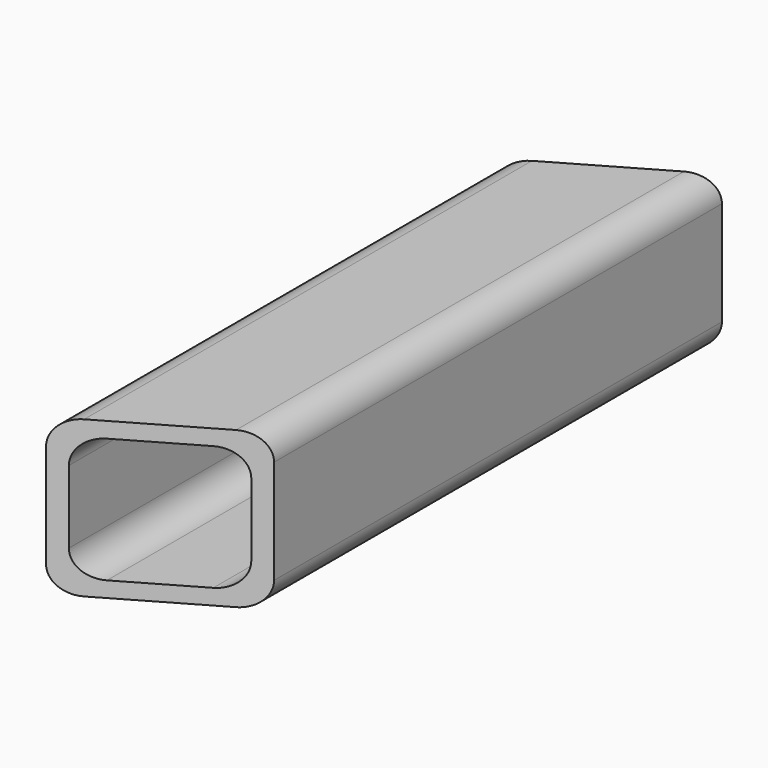
from build123d import *

# Parameters (mm, degrees)
F0_W     = 60
F0_H     = 60
F1_DEPTH = 250
F2_T     = -6
F3_R     = 10
F5_DEPTH = 60.001
F7_DEPTH = 60.001


with BuildPart() as f1:
    # F0 (on Front) → F1 (new body)
    with BuildSketch(Plane.XZ):
        Rectangle(F0_W, F0_H)
    extrude(amount=F1_DEPTH)

    # F2
    f2_openings = [f1.faces().sort_by_distance(p)[0] for p in [
        (0, -250, 0),
        (0, 0, 0),
    ]]
    offset(amount=F2_T, openings=f2_openings)

    # F3
    f3_edges = [f1.edges().sort_by_distance(p)[0] for p in [
        (-30, -125, 30),
        (-24, -125, -24),
        (30, -125, 30),
        (30, -125, -30),
        (-24, -125, 24),
        (-30, -125, -30),
        (24, -125, 24),
        (24, -125, -24),
    ]]
    fillet(f3_edges, radius=F3_R)

    # F4 (on face) → F5 (cut, through all)
    with BuildSketch(Plane.XY.offset(30)):
        Polygon((40, -255.7735026919), (40, -209.5854811567), (-40, -255.7735026919), align=None)
    extrude(amount=-F5_DEPTH, mode=Mode.SUBTRACT)

    # F6 (on face) → F7 (cut, through all)
    with BuildSketch(Plane.XY.offset(30)):
        Polygon((-40, 5.7735026919), (-40, -40.4145188433), (40, 5.7735026919), align=None)
    extrude(amount=-F7_DEPTH, mode=Mode.SUBTRACT)


solid = f1.part
